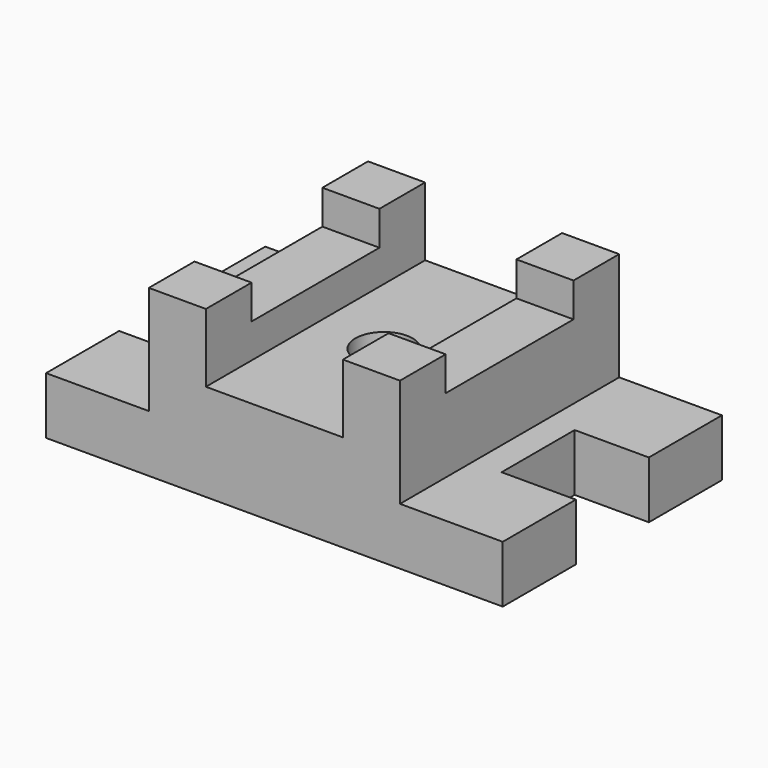
from build123d import *

# Parameters (mm, degrees)
F1_DEPTH = 31.75
F0_W     = 31.75
F0_H     = 31.75
F2_DEPTH = 92.075
F3_DEPTH = 73.025
F0_R     = 15.875
F4_DEPTH = 53.975


with BuildPart() as f1:
    # F0 (on Top) → F1 (new body)
    with BuildSketch(Plane.XY):
        Polygon((69.85, -44.45), (69.85, -76.2), (127, -76.2), (127, -25.4), (85.725, -25.4), (85.725, 0), (85.725, 25.4), (127, 25.4), (127, 76.2), (69.85, 76.2), (69.85, 44.45), (69.85, 0), align=None)
        Polygon((-127, -76.2), (-69.85, -76.2), (-69.85, -44.45), (-69.85, 0), (-69.85, 44.45), (-69.85, 76.2), (-127, 76.2), (-127, 25.4), (-85.725, 25.4), (-85.725, 0), (-85.725, -25.4), (-127, -25.4), align=None)
    extrude(amount=F1_DEPTH)

    # F0 (on Top) → F2 (join)
    with BuildSketch(Plane.XY):
        with Locations((-53.975, 60.325)):
            Rectangle(F0_W, F0_H)
        with Locations((53.975, 60.325)):
            Rectangle(F0_W, F0_H)
        with Locations((53.975, -60.325)):
            Rectangle(F0_W, F0_H)
        with Locations((-53.975, -60.325)):
            Rectangle(F0_W, F0_H)
    extrude(amount=F2_DEPTH)

    # F0 (on Top) → F3 (join)
    with BuildSketch(Plane.XY):
        Polygon((38.1, 0), (38.1, -44.45), (69.85, -44.45), (69.85, 0), (69.85, 44.45), (38.1, 44.45), align=None)
        Polygon((-69.85, -44.45), (-38.1, -44.45), (-38.1, 0), (-38.1, 44.45), (-69.85, 44.45), (-69.85, 0), align=None)
    extrude(amount=F3_DEPTH)

    # F0 (on Top) → F4 (join)
    with BuildSketch(Plane.XY):
        Polygon((-38.1, -76.2), (0, -76.2), (38.1, -76.2), (38.1, -44.45), (38.1, 0), (38.1, 44.45), (38.1, 76.2), (0, 76.2), (-38.1, 76.2), (-38.1, 44.45), (-38.1, 0), (-38.1, -44.45), align=None)
        Circle(F0_R, mode=Mode.SUBTRACT)
    extrude(amount=F4_DEPTH)


solid = f1.part
